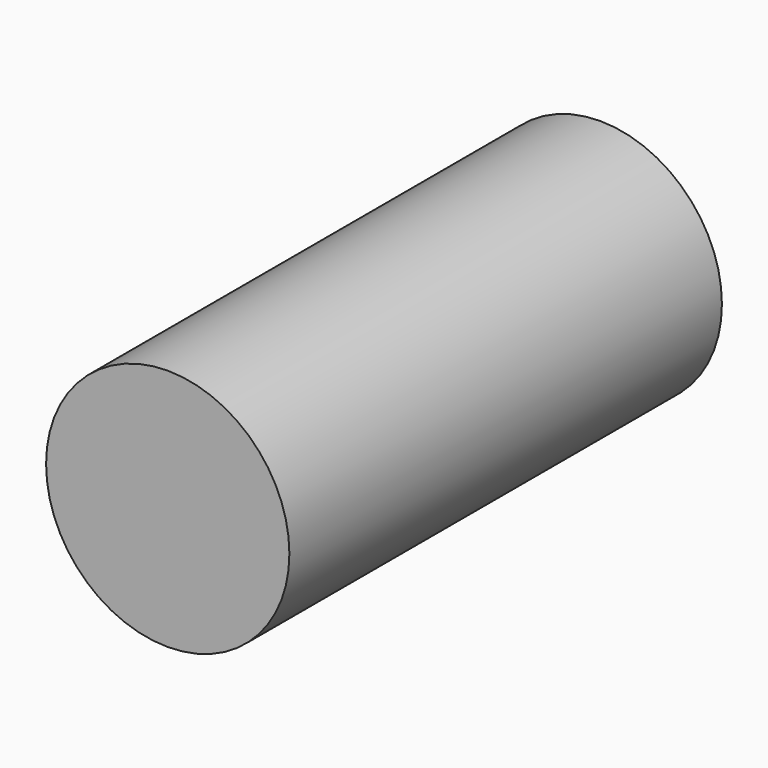
from build123d import *

# Parameters (mm, degrees)
F0_R     = 11.43
F0_R_2   = 10.4648
F1_DEPTH = 25.4
F2_R     = 10.4648
F3_DEPTH = 25.4


with BuildPart() as f1:
    # F0 (on Front) → F1 (new body, symmetric)
    with BuildSketch(Plane.XZ):
        Circle(F0_R)
        Circle(F0_R_2, mode=Mode.SUBTRACT)
    extrude(amount=F1_DEPTH, both=True)

    # F2 (on Front) → F3 (join, through all)
    with BuildSketch(Plane.XZ):
        Circle(F2_R)
    extrude(amount=F3_DEPTH)


solid = f1.part
